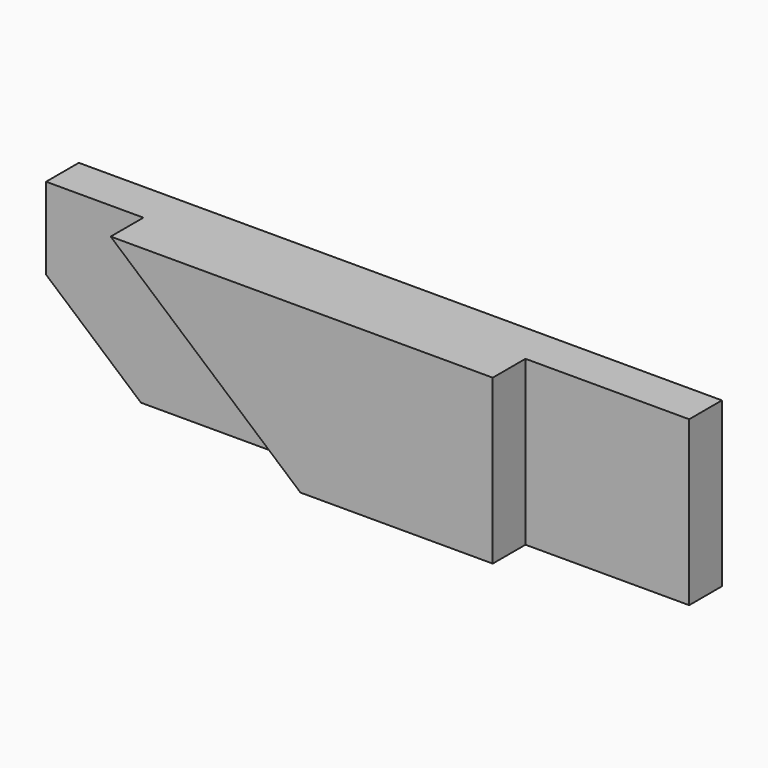
from build123d import *

# Parameters (mm, degrees)
F0_W     = 275
F0_H     = 70
F1_DEPTH = 35
F2_W     = 70
F2_H     = 17.5
F3_DEPTH = 70.001
F5_DEPTH = 35.001
F7_DEPTH = 17.5


with BuildPart() as f1:
    # F0 (on Front) → F1 (new body)
    with BuildSketch(Plane.XZ):
        with Locations((137.5, 35)):
            Rectangle(F0_W, F0_H)
    extrude(amount=F1_DEPTH)

    # F2 (on face) → F3 (cut, through all)
    with BuildSketch(Plane(origin=(0, 0, 0), x_dir=(1, 0, 0), z_dir=(0, 0, -1))):
        with Locations((240, 26.25)):
            Rectangle(F2_W, F2_H)
    extrude(amount=-F3_DEPTH, mode=Mode.SUBTRACT)

    # F4 (on face) → F5 (cut, through all)
    with BuildSketch(Plane.XZ.offset(35)):
        Polygon((40.58855, 0), (0, 35), (0, 0), align=None)
    extrude(amount=-F5_DEPTH, mode=Mode.SUBTRACT)

    # F6 (on face) → F7 (cut)
    with BuildSketch(Plane.XZ.offset(35)):
        Polygon((40.58855, 0), (122.794275, 0), (41.617175, 70), (0, 70), (0, 35), align=None)
    extrude(amount=-F7_DEPTH, mode=Mode.SUBTRACT)


solid = f1.part
